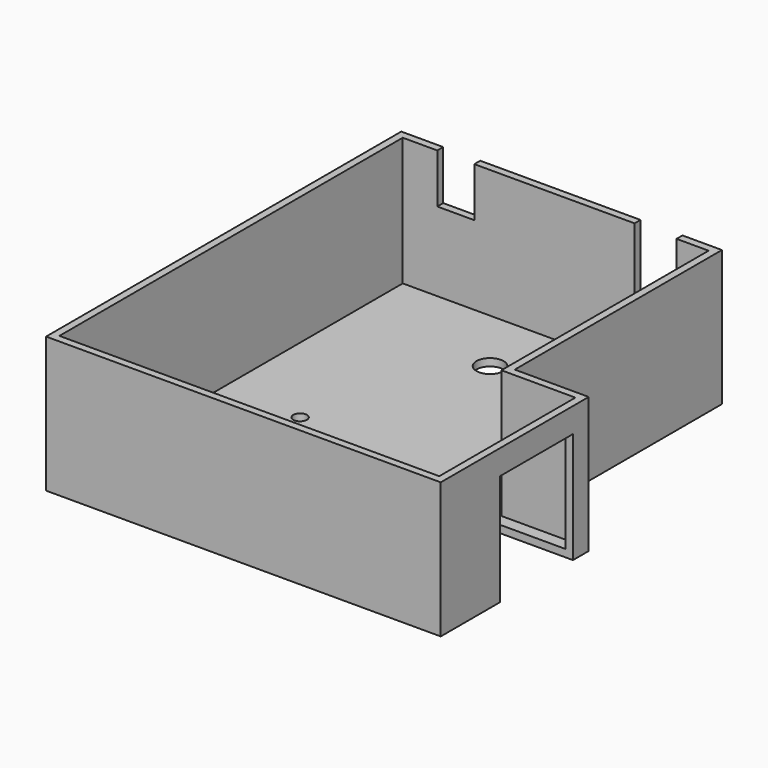
from build123d import *

# Parameters (mm, degrees)
BOX021_W          = 150
BOX021_H          = 37
BOX021_DEPTH      = 45
BOX018_W          = 15
BOX018_H          = 20
BOX018_DEPTH      = 20
BOX017_W          = 17
BOX017_H          = 20
BOX017_DEPTH      = 28
CYLINDER015_R     = 2.75
CYLINDER015_DEPTH = 10
CYLINDER016_R     = 2.75
CYLINDER016_DEPTH = 10
CYLINDER017_R     = 2.75
CYLINDER017_DEPTH = 10
CYLINDER018_R     = 5.5
CYLINDER018_DEPTH = 10
CYLINDER014_R     = 2.75
CYLINDER014_DEPTH = 10
BOX016_W          = 30
BOX016_H          = 69
BOX016_DEPTH      = 55
BOX015_W          = 124
BOX015_H          = 174
BOX015_DEPTH      = 55
BOX014_W          = 30
BOX014_H          = 105
BOX014_DEPTH      = 55
BOX009_W          = 160
BOX009_H          = 180
BOX009_DEPTH      = 55


with BuildPart() as obj1:
    # Box021 → Box021 (new body)
    with BuildSketch(Plane(origin=(10, 30, 0), x_dir=(1, 0, 0), z_dir=(0, 0, 1))):
        with Locations((75, 18.5)):
            Rectangle(BOX021_W, BOX021_H)
    extrude(amount=BOX021_DEPTH)


with BuildPart() as obj2:
    # Box018 → Box018 (new body)
    with BuildSketch(Plane(origin=(17, 170, 35), x_dir=(1, 0, 0), z_dir=(0, 0, 1))):
        with Locations((7.5, 10)):
            Rectangle(BOX018_W, BOX018_H)
    extrude(amount=BOX018_DEPTH)


with BuildPart() as fusion012:
    # Box017 → Box017 (new body)
    with BuildSketch(Plane(origin=(97, 170, 27), x_dir=(1, 0, 0), z_dir=(0, 0, 1))):
        with Locations((8.5, 10)):
            Rectangle(BOX017_W, BOX017_H)
    extrude(amount=BOX017_DEPTH)

    # Fusion012: union obj2
    add(obj2.part)


with BuildPart() as zylinder001:
    # Cylinder015 → Cylinder015 (new body)
    with BuildSketch(Plane(origin=(105, 20, -3), x_dir=(1, 0, 0), z_dir=(0, 0, 1))):
        Circle(CYLINDER015_R)
    extrude(amount=CYLINDER015_DEPTH)


with BuildPart() as zylinder002:
    # Cylinder016 → Cylinder016 (new body)
    with BuildSketch(Plane(origin=(79, 159, -3), x_dir=(1, 0, 0), z_dir=(0, 0, 1))):
        Circle(CYLINDER016_R)
    extrude(amount=CYLINDER016_DEPTH)


with BuildPart() as zylinder003:
    # Cylinder017 → Cylinder017 (new body)
    with BuildSketch(Plane(origin=(35, 85, -3), x_dir=(1, 0, 0), z_dir=(0, 0, 1))):
        Circle(CYLINDER017_R)
    extrude(amount=CYLINDER017_DEPTH)


with BuildPart() as zylinder004:
    # Cylinder018 → Cylinder018 (new body)
    with BuildSketch(Plane(origin=(60, 150, -3), x_dir=(1, 0, 0), z_dir=(0, 0, 1))):
        Circle(CYLINDER018_R)
    extrude(amount=CYLINDER018_DEPTH)


with BuildPart() as fusion008:
    # Cylinder014 → Cylinder014 (new body)
    with BuildSketch(Plane(origin=(20, 20, -3), x_dir=(1, 0, 0), z_dir=(0, 0, 1))):
        Circle(CYLINDER014_R)
    extrude(amount=CYLINDER014_DEPTH)

    # Fusion008: union Zylinder001, Zylinder002, Zylinder003, Zylinder004
    add(zylinder001.part)
    add(zylinder002.part)
    add(zylinder003.part)
    add(zylinder004.part)


with BuildPart() as obj3:
    # Box016 → Box016 (new body)
    with BuildSketch(Plane(origin=(127, 3, 3), x_dir=(1, 0, 0), z_dir=(0, 0, 1))):
        with Locations((15, 34.5)):
            Rectangle(BOX016_W, BOX016_H)
    extrude(amount=BOX016_DEPTH)


with BuildPart() as fusion011:
    # Box015 → Box015 (new body)
    with BuildSketch(Plane(origin=(3, 3, 3), x_dir=(1, 0, 0), z_dir=(0, 0, 1))):
        with Locations((62, 87)):
            Rectangle(BOX015_W, BOX015_H)
    extrude(amount=BOX015_DEPTH)

    # Fusion011: union obj3
    add(obj3.part)


with BuildPart() as obj4:
    # Box014 → Box014 (new body)
    with BuildSketch(Plane(origin=(130, 75, 0), x_dir=(1, 0, 0), z_dir=(0, 0, 1))):
        with Locations((15, 52.5)):
            Rectangle(BOX014_W, BOX014_H)
    extrude(amount=BOX014_DEPTH)


with BuildPart() as cut017:
    # Box009 → Box009 (new body)
    with BuildSketch(Plane.XY):
        with Locations((80, 90)):
            Rectangle(BOX009_W, BOX009_H)
    extrude(amount=BOX009_DEPTH)

    # Cut012: cut obj4
    add(obj4.part, mode=Mode.SUBTRACT)

    # Cut013: cut Fusion011
    add(fusion011.part, mode=Mode.SUBTRACT)

    # Cut014: cut Fusion008
    add(fusion008.part, mode=Mode.SUBTRACT)

    # Cut015: cut Fusion012
    add(fusion012.part, mode=Mode.SUBTRACT)

    # Cut017: cut obj1
    add(obj1.part, mode=Mode.SUBTRACT)


solid = cut017.part
